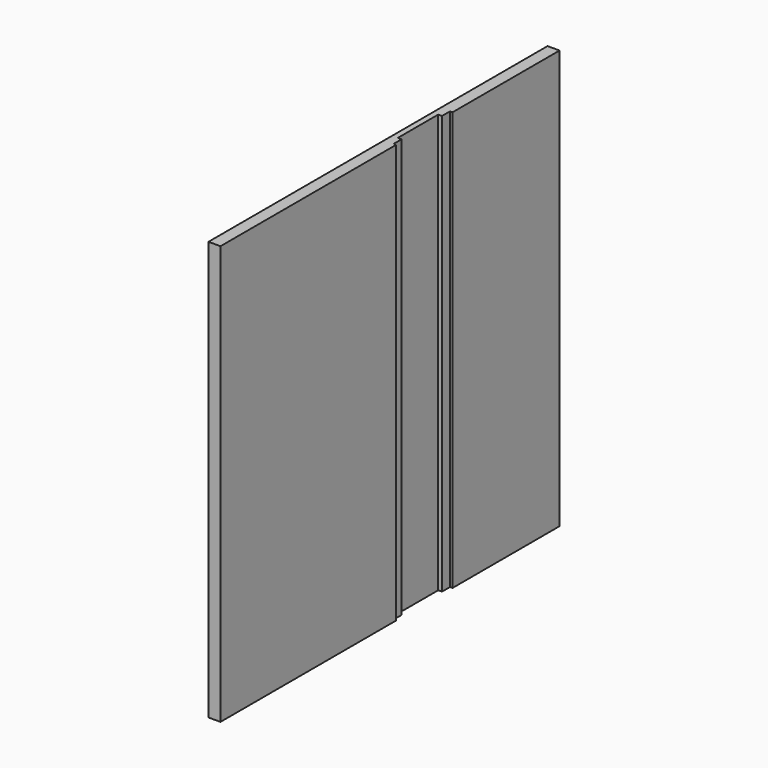
from build123d import *

# Parameters (mm, degrees)
F0_W     = 1066.8
F0_H     = 1054.1
F1_DEPTH = 30.226
F3_DEPTH = 6.35
F4_W     = 127
F4_H     = 527.05
F5_DEPTH = 9.525


with BuildPart() as f1:
    # F0 (on Right) → F1 (new body)
    with BuildSketch(Plane.YZ):
        Rectangle(F0_W, F0_H)
    extrude(amount=F1_DEPTH)

    # F2 (on face) → F3 (cut)
    with BuildSketch(Plane.YZ.offset(30.226)):
        Polygon((31.75, 527.05), (19.05, 527.05), (19.05, -527.05), (31.75, -527.05), (184.15, -527.05), (196.85, -527.05), (196.85, 527.05), (184.15, 527.05), align=None)
    extrude(amount=-F3_DEPTH, mode=Mode.SUBTRACT)

    # F4 (on face) → F5 (cut)
    with BuildSketch(Plane.YZ.offset(23.876)):
        with Locations((107.95, -263.525)):
            Rectangle(F4_W, F4_H)
        with Locations((107.95, 263.525)):
            Rectangle(F4_W, F4_H)
    extrude(amount=-F5_DEPTH, mode=Mode.SUBTRACT)


solid = f1.part
